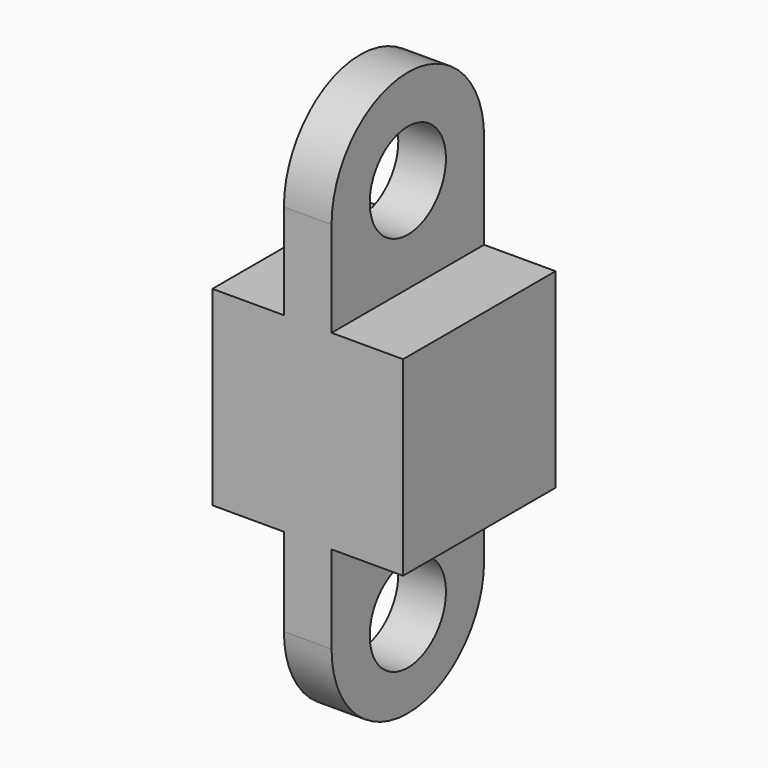
from build123d import *

# Parameters (mm, degrees)
F0_W     = 40
F0_H     = 40
F1_DEPTH = 40
F3_DEPTH = 5
F4_R     = 10
F5_DEPTH = 25


with BuildPart() as f1:
    # F0 (on Top) → F1 (new body)
    with BuildSketch(Plane.XY):
        Rectangle(F0_W, F0_H)
    extrude(amount=F1_DEPTH)

    # F2 (on Right) → F3 (join, symmetric)
    with BuildSketch(Plane.YZ):
        with BuildLine():
            Line((-20, 60), (-20, 40))
            Line((-20, 40), (20, 40))
            Line((20, 40), (20, 60))
            ThreePointArc((20, 60), (0, 80), (-20, 60))
        make_face()
        with BuildLine():
            Line((20, -18.422272), (20, 0))
            Line((20, 0), (-20, 0))
            Line((-20, 0), (-20, -18.422272))
            ThreePointArc((-20, -18.422272), (0, -38.422272), (20, -18.422272))
        make_face()
    extrude(amount=F3_DEPTH, both=True)

    # F4 (on face) → F5 (cut)
    with BuildSketch(Plane.YZ.offset(5)):
        with Locations((0, 60)):
            Circle(F4_R)
        with Locations((0, -20)):
            Circle(F4_R)
    extrude(amount=-F5_DEPTH, mode=Mode.SUBTRACT)


solid = f1.part
